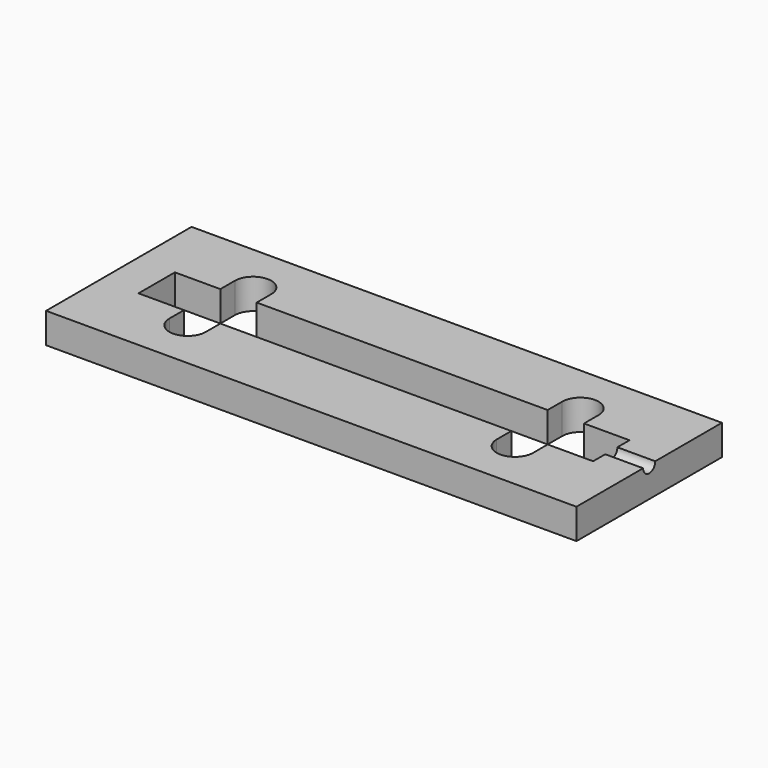
from build123d import *

# Parameters (mm, degrees)
F0_W     = 175
F0_H     = 60
F0_W_2   = 150
F0_H_2   = 15
F1_DEPTH = 10
F3_DEPTH = 25
F5_DEPTH = 25


with BuildPart() as f1:
    # F0 (on Top) → F1 (new body)
    with BuildSketch(Plane.XY):
        with Locations((40.5961677884, 3.4049740061)):
            Rectangle(F0_W, F0_H)
        with Locations((40.5961677884, 3.4049740061)):
            Rectangle(F0_W_2, F0_H_2, mode=Mode.SUBTRACT)
    extrude(amount=F1_DEPTH)

    # F2 (on face) → F3 (cut)
    with BuildSketch(Plane.YZ.offset(128.0961677884)):
        with BuildLine():
            ThreePointArc((0.9049740061, 10), (3.4049740061, 7.5), (5.9049740061, 10))
            Line((5.9049740061, 10), (0.9049740061, 10))
        make_face()
    extrude(amount=-F3_DEPTH, mode=Mode.SUBTRACT)

    # F4 (on face) → F5 (cut)
    with BuildSketch(Plane.XY.offset(10)):
        with BuildLine():
            Line((-7.4038322116, 16.9049740061), (-19.4038322116, 16.9049740061))
            ThreePointArc((-19.4038322116, 16.9049740061), (-17.6464728987, 12.662333319), (-13.4038322116, 10.9049740061))
            ThreePointArc((-13.4038322116, 10.9049740061), (-9.1611915245, 12.662333319), (-7.4038322116, 16.9049740061))
        make_face()
        Polygon((-13.4038322116, 10.9049740061), (-19.4038322116, 10.9049740061), (-19.4038322116, -4.0950259939), (-13.4038321289, -4.0950259939), (-7.4038322116, -4.0950259939), (-7.4038322116, 10.9049740061), align=None)
        with BuildLine():
            ThreePointArc((-7.4038322116, 16.9049740061), (-13.4038322116, 22.9049740061), (-19.4038322116, 16.9049740061))
            Line((-19.4038322116, 16.9049740061), (-7.4038322116, 16.9049740061))
        make_face()
        with BuildLine():
            Line((-7.4038322116, 10.9049740061), (-7.4038322116, 16.9049740061))
            ThreePointArc((-7.4038322116, 16.9049740061), (-9.1611915245, 12.662333319), (-13.4038322116, 10.9049740061))
            Line((-13.4038322116, 10.9049740061), (-7.4038322116, 10.9049740061))
        make_face()
        with BuildLine():
            ThreePointArc((-13.4038322116, 10.9049740061), (-17.6464728987, 12.662333319), (-19.4038322116, 16.9049740061))
            Line((-19.4038322116, 16.9049740061), (-19.4038322116, 10.9049740061))
            Line((-19.4038322116, 10.9049740061), (-13.4038322116, 10.9049740061))
        make_face()
        with BuildLine():
            ThreePointArc((-13.4038321289, -4.0950259939), (-17.6464728695, -5.8523852775), (-19.4038322116, -10.0950259939))
            Line((-19.4038322116, -10.0950259939), (-7.4038322116, -10.0950259939))
            ThreePointArc((-7.4038322116, -10.0950259939), (-9.1611914952, -5.852385336), (-13.4038321289, -4.0950259939))
        make_face()
        with BuildLine():
            Line((-13.4038321289, -4.0950259939), (-19.4038322116, -4.0950259939))
            Line((-19.4038322116, -4.0950259939), (-19.4038322116, -10.0950259939))
            ThreePointArc((-19.4038322116, -10.0950259939), (-17.6464728695, -5.8523852775), (-13.4038321289, -4.0950259939))
        make_face()
        with BuildLine():
            Line((-7.4038322116, -10.0950259939), (-7.4038322116, -4.0950259939))
            Line((-7.4038322116, -4.0950259939), (-13.4038321289, -4.0950259939))
            ThreePointArc((-13.4038321289, -4.0950259939), (-9.1611914952, -5.852385336), (-7.4038322116, -10.0950259939))
        make_face()
        with BuildLine():
            Line((-7.4038322116, -10.0950259939), (-19.4038322116, -10.0950259939))
            ThreePointArc((-19.4038322116, -10.0950259939), (-13.4038322116, -16.0950259939), (-7.4038322116, -10.0950259939))
        make_face()
        with BuildLine():
            Line((100.5961677884, -10.0950259939), (88.5961677884, -10.0950259939))
            ThreePointArc((88.5961677884, -10.0950259939), (94.5961677884, -16.0950259939), (100.5961677884, -10.0950259939))
        make_face()
        with BuildLine():
            ThreePointArc((94.5961677884, -4.0950259939), (90.3535271013, -5.8523853068), (88.5961677884, -10.0950259939))
            Line((88.5961677884, -10.0950259939), (100.5961677884, -10.0950259939))
            ThreePointArc((100.5961677884, -10.0950259939), (98.8388084755, -5.8523853068), (94.5961677884, -4.0950259939))
        make_face()
        Polygon((94.5961677884, 10.9049740061), (88.5961677884, 10.9049740061), (88.5961677884, -4.0950259939), (94.5961677884, -4.0950259939), (100.5961677884, -4.0950259939), (100.5961677884, 10.9049740061), align=None)
        with BuildLine():
            Line((100.5961677884, 16.9049740061), (88.5961677884, 16.9049740061))
            ThreePointArc((88.5961677884, 16.9049740061), (90.3535271013, 12.662333319), (94.5961677884, 10.9049740061))
            ThreePointArc((94.5961677884, 10.9049740061), (98.8388084755, 12.662333319), (100.5961677884, 16.9049740061))
        make_face()
        with BuildLine():
            ThreePointArc((100.5961677884, 16.9049740061), (94.5961677884, 22.9049740061), (88.5961677884, 16.9049740061))
            Line((88.5961677884, 16.9049740061), (100.5961677884, 16.9049740061))
        make_face()
        with BuildLine():
            ThreePointArc((100.5961677884, 16.9049740061), (98.8388084755, 12.662333319), (94.5961677884, 10.9049740061))
            Line((94.5961677884, 10.9049740061), (100.5961677884, 10.9049740061))
            Line((100.5961677884, 10.9049740061), (100.5961677884, 16.9049740061))
        make_face()
        with BuildLine():
            Line((88.5961677884, 16.9049740061), (88.5961677884, 10.9049740061))
            Line((88.5961677884, 10.9049740061), (94.5961677884, 10.9049740061))
            ThreePointArc((94.5961677884, 10.9049740061), (90.3535271013, 12.662333319), (88.5961677884, 16.9049740061))
        make_face()
        with BuildLine():
            Line((94.5961677884, -4.0950259939), (88.5961677884, -4.0950259939))
            Line((88.5961677884, -4.0950259939), (88.5961677884, -10.0950259939))
            ThreePointArc((88.5961677884, -10.0950259939), (90.3535271013, -5.8523853068), (94.5961677884, -4.0950259939))
        make_face()
        with BuildLine():
            Line((100.5961677884, -4.0950259939), (94.5961677884, -4.0950259939))
            ThreePointArc((94.5961677884, -4.0950259939), (98.8388084755, -5.8523853068), (100.5961677884, -10.0950259939))
            Line((100.5961677884, -10.0950259939), (100.5961677884, -4.0950259939))
        make_face()
    extrude(amount=-F5_DEPTH, mode=Mode.SUBTRACT)


solid = f1.part
